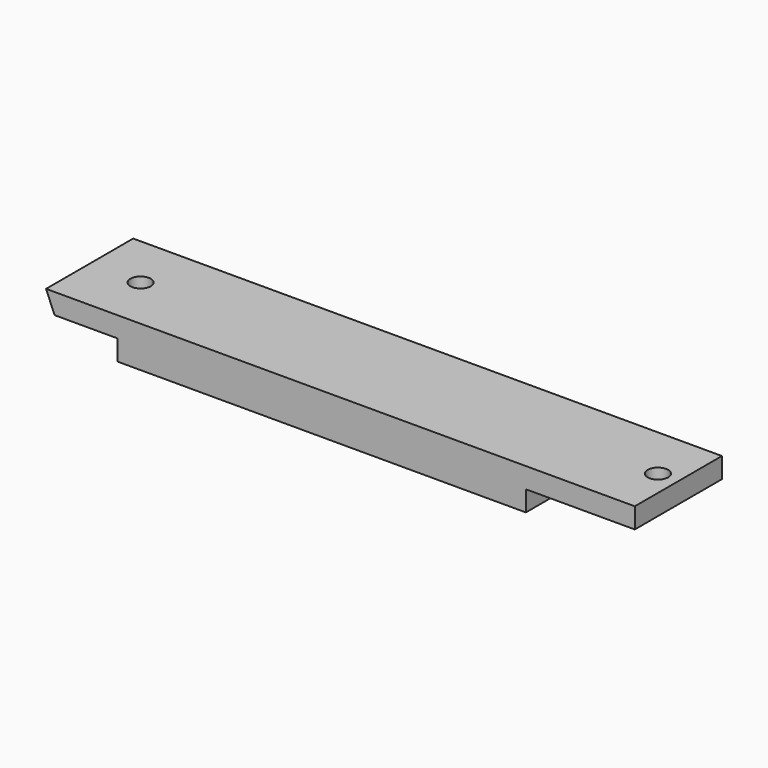
from build123d import *

# Parameters (mm, degrees)
F1_DEPTH = 25.4
F2_R     = 4.7625
F3_DEPTH = 25.4


with BuildPart() as f1:
    # F0 (on Front) → F1 (new body, symmetric)
    with BuildSketch(Plane.XZ):
        Polygon((29.345384, 0), (29.345384, -9.525), (219.845384, -9.525), (219.845384, 0), (270.645384, 0), (270.645384, 9.525), (-3.945384, 9.525), (0, 0), align=None)
    extrude(amount=F1_DEPTH, both=True)

    # F2 (on Top) → F3 (cut)
    with BuildSketch(Plane.XY):
        with Locations((261.120384, 0)):
            Circle(F2_R)
        with Locations((19.820384, 0)):
            Circle(F2_R)
    extrude(amount=F3_DEPTH, mode=Mode.SUBTRACT)


solid = f1.part
